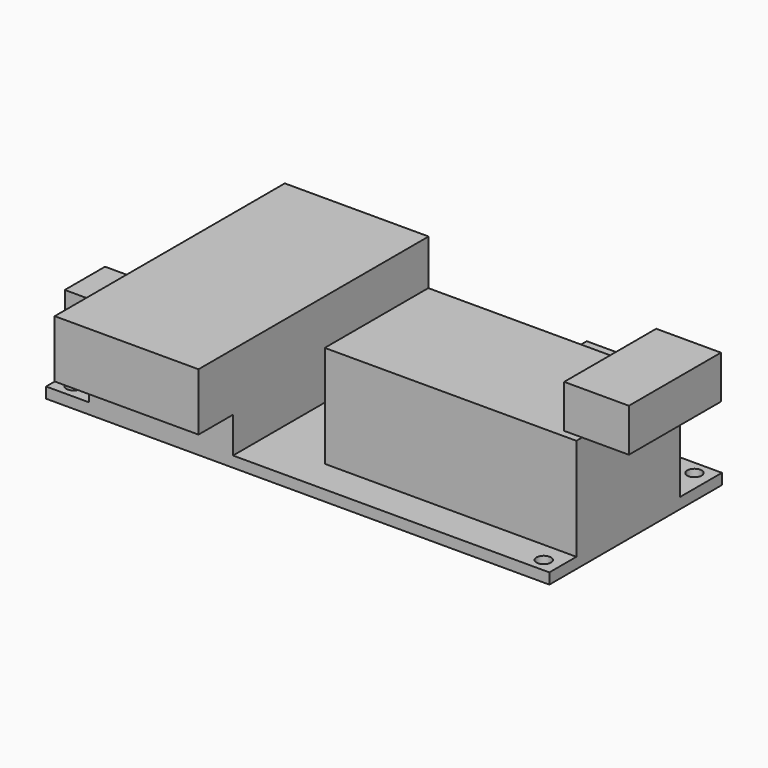
from build123d import *

# Parameters (mm, degrees)
SKETCH002_W  = 70
SKETCH002_H  = 30
SKETCH002_R  = 1
PAD002_DEPTH = 1.5
SKETCH003_W  = 20
SKETCH003_H  = 30
PAD003_DEPTH = 5
SKETCH004_W  = 20
SKETCH004_H  = 40
PAD004_DEPTH = 8
SKETCH005_W  = 35
SKETCH005_H  = 18
PAD005_DEPTH = 14.2
SKETCH006_W  = 9
SKETCH006_H  = 16
PAD006_DEPTH = 6
SKETCH010_W  = 10.5
SKETCH010_H  = 7.3
PAD009_DEPTH = 10
PAD010_DEPTH = 6


with BuildPart() as part:
    # Sketch002 → Pad002 (new body)
    with BuildSketch(Plane.XY):
        Rectangle(SKETCH002_W, SKETCH002_H)
        with Locations((-32.7, 13.1)):
            Circle(SKETCH002_R, mode=Mode.SUBTRACT)
        with Locations((-32.7, -13.1)):
            Circle(SKETCH002_R, mode=Mode.SUBTRACT)
        with Locations((32.7, 13.1)):
            Circle(SKETCH002_R, mode=Mode.SUBTRACT)
        with Locations((32.7, -13.1)):
            Circle(SKETCH002_R, mode=Mode.SUBTRACT)
    extrude(amount=PAD002_DEPTH)

    # Sketch003 (on Face10 of Pad002) → Pad003 (join)
    with BuildSketch(Plane.XY.offset(1.5)):
        with Locations((-19, 0)):
            Rectangle(SKETCH003_W, SKETCH003_H)
    extrude(amount=PAD003_DEPTH)

    # Sketch004 (on Face15 of Pad003) → Pad004 (join)
    with BuildSketch(Plane.XY.offset(6.5)):
        with Locations((-19, -1)):
            Rectangle(SKETCH004_W, SKETCH004_H)
    extrude(amount=PAD004_DEPTH)

    # Sketch005 (on Face13 of Pad004) → Pad005 (join)
    with BuildSketch(Plane.XY.offset(1.5)):
        with Locations((17.5, -1.3)):
            Rectangle(SKETCH005_W, SKETCH005_H)
    extrude(amount=PAD005_DEPTH)

    # Sketch006 (on Face27 of Pad005) → Pad006 (join)
    with BuildSketch(Plane.XY.offset(15.7)):
        with Locations((37, -1.3)):
            Rectangle(SKETCH006_W, SKETCH006_H)
    extrude(amount=PAD006_DEPTH)

    # Sketch010 (on Face13 of Pad006) → Pad009 (join)
    with BuildSketch(Plane.XY.offset(1.5)):
        with Locations((21.45, 11.35)):
            Rectangle(SKETCH010_W, SKETCH010_H)
    extrude(amount=PAD009_DEPTH)

    # Sketch012 (on Face12 of Pad009) → Pad010 (join)
    with BuildSketch(Plane.XY.offset(1.5)):
        Polygon((-29, 4), (-35.7, 4), (-35.7, 2), (-40.4, 2), (-40.4, -5), (-35.7, -5), (-35.7, -7), (-29, -7), align=None)
    extrude(amount=PAD010_DEPTH)


with BuildPart() as part_1:
    # Body001 placement: moved
    add(part.part.moved(Location((0, -19.6, 4))))


solid = part_1.part
